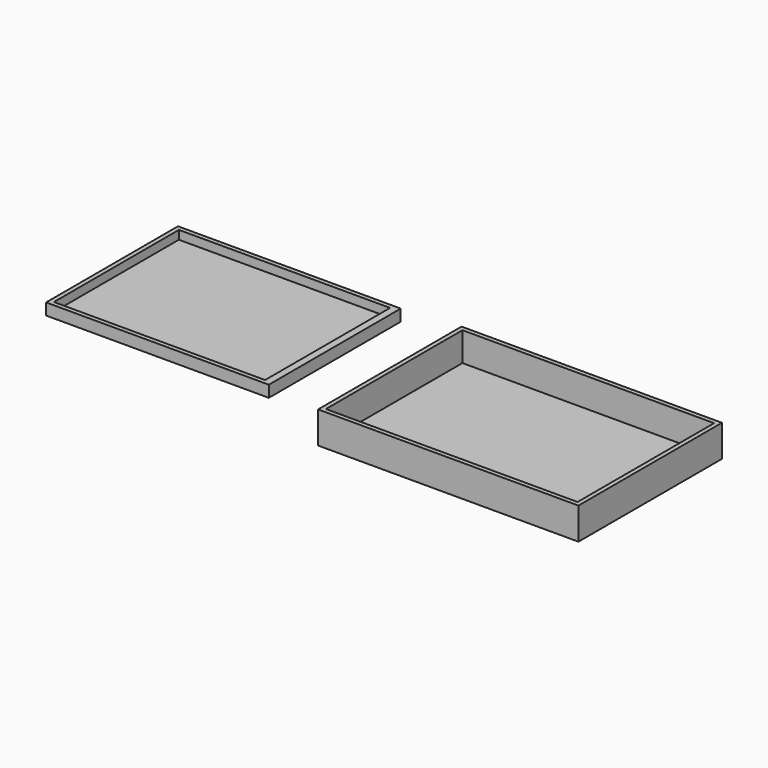
from build123d import *

# Parameters (mm, degrees)
F0_W     = 90
F0_H     = 62
F0_W_2   = 87
F0_H_2   = 59
F1_DEPTH = 1
F2_W     = 90
F2_H     = 62
F2_W_2   = 87
F2_H_2   = 59
F3_DEPTH = 10
F4_W     = 77
F4_H     = 57
F5_DEPTH = 1
F6_W     = 77
F6_H     = 57
F6_W_2   = 73
F6_H_2   = 54
F7_DEPTH = 3


with BuildPart() as f1:
    # F0 (on Top) → F1 (new body)
    with BuildSketch(Plane.XY):
        with Locations((11.5384590626, 2.4423064142)):
            Rectangle(F0_W, F0_H)
        with Locations((11.5384590626, 2.4423064142)):
            Rectangle(F0_W_2, F0_H_2, mode=Mode.SUBTRACT)
        with Locations((11.5384590626, 2.4423064142)):
            Rectangle(F0_W_2, F0_H_2)
    extrude(amount=F1_DEPTH)

    # F2 (on face) → F3 (join)
    with BuildSketch(Plane.XY.offset(1)):
        with Locations((11.5384590626, 2.4423064142)):
            Rectangle(F2_W, F2_H)
        with Locations((11.5384590626, 2.4423064142)):
            Rectangle(F2_W_2, F2_H_2, mode=Mode.SUBTRACT)
    extrude(amount=F3_DEPTH)


with BuildPart() as f5:
    # F4 (on Top) → F5 (new body)
    with BuildSketch(Plane.XY):
        with Locations((-99.7649838924, 13.4157538265)):
            Rectangle(F4_W, F4_H)
    extrude(amount=F5_DEPTH)

    # F6 (on face) → F7 (join)
    with BuildSketch(Plane.XY.offset(1)):
        with Locations((-99.7649838924, 13.4157538265)):
            Rectangle(F6_W, F6_H)
        with Locations((-100.2649838924, 13.4157538265)):
            Rectangle(F6_W_2, F6_H_2, mode=Mode.SUBTRACT)
    extrude(amount=F7_DEPTH)


solid = Compound([f1.part, f5.part])
